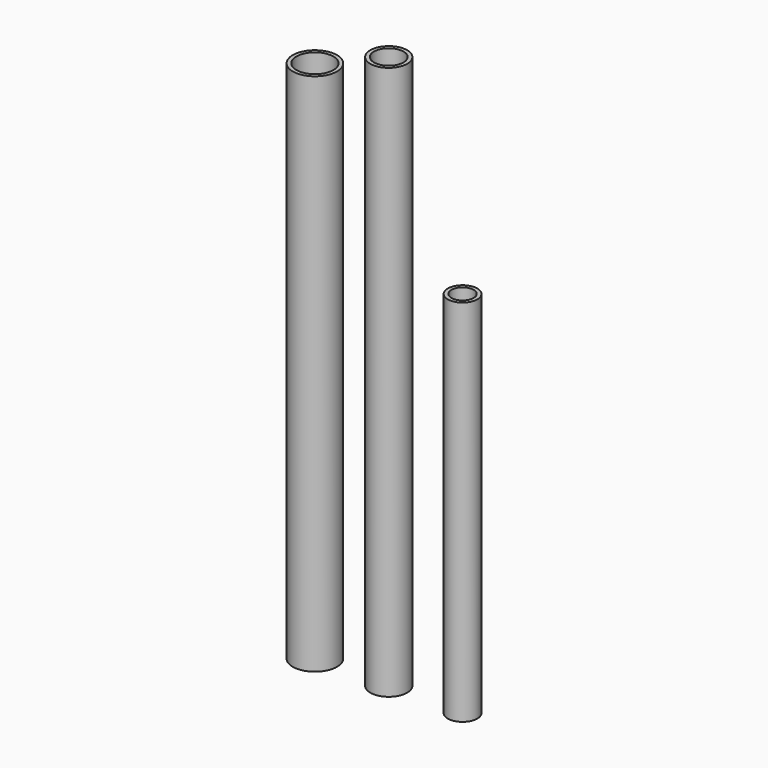
from build123d import *

# Parameters (mm, degrees)
F0_R     = 3
F0_R_2   = 2.5
F1_DEPTH = 71
F3_R     = 2
F3_R_2   = 1.5
F4_DEPTH = 50
F2_R     = 2.5
F2_R_2   = 2
F5_DEPTH = 75


with BuildPart() as f1:
    # F0 (on Top) → F1 (new body)
    with BuildSketch(Plane.XY):
        with Locations((-10, 0)):
            Circle(F0_R)
        with Locations((-10, 0)):
            Circle(F0_R_2, mode=Mode.SUBTRACT)
    extrude(amount=F1_DEPTH)


with BuildPart() as f4:
    # F3 (on Top) → F4 (new body)
    with BuildSketch(Plane.XY):
        with Locations((10, 0)):
            Circle(F3_R)
        with Locations((10, 0)):
            Circle(F3_R_2, mode=Mode.SUBTRACT)
    extrude(amount=F4_DEPTH)


with BuildPart() as f5:
    # F2 (on Top) → F5 (new body)
    with BuildSketch(Plane.XY):
        Circle(F2_R)
        Circle(F2_R_2, mode=Mode.SUBTRACT)
    extrude(amount=F5_DEPTH)


solid = Compound([f1.part, f4.part, f5.part])
